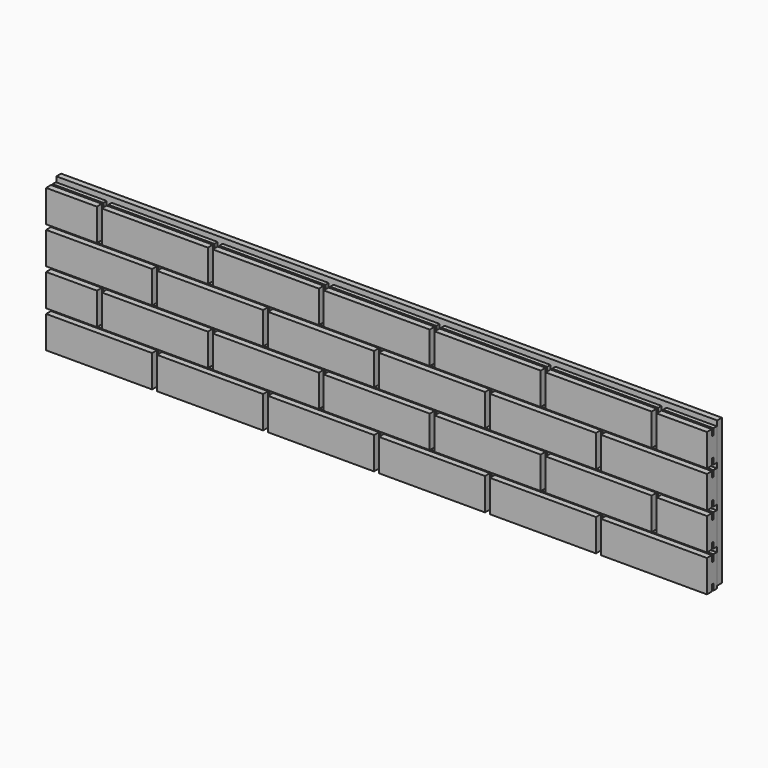
from build123d import *

# Parameters (mm, degrees)
F0_W     = 215
F0_H     = 5
F0_H_2   = 60
F1_DEPTH = 25
F0_W_2   = 102.966442
F0_H_3   = 65
F0_W_3   = 102.033558
F3_W     = 4
F3_H     = 35
F3_H_2   = 12.7475997806
F4_DEPTH = 1340.001
F5_W     = 12
F5_H     = 295
F6_DEPTH = 1340


with BuildPart() as f1:
    # F0 (on Front) → F1 (new body)
    with BuildSketch(Plane.XZ):
        with Locations((-2308.1653881073, 2.5)):
            Rectangle(F0_W, F0_H)
        with Locations((-2308.1653881073, 35)):
            Rectangle(F0_W, F0_H_2)
    extrude(amount=F1_DEPTH)


with BuildPart() as f1b:
    # F0 (on Front) → F1, piece 2 (new body)
    with BuildSketch(Plane.XZ):
        with Locations((-2083.1653881073, 2.5)):
            Rectangle(F0_W, F0_H)
        with Locations((-2083.1653881073, 35)):
            Rectangle(F0_W, F0_H_2)
    extrude(amount=F1_DEPTH)


with BuildPart() as f1c:
    # F0 (on Front) → F1, piece 3 (new body)
    with BuildSketch(Plane.XZ):
        with Locations((-1858.1653881073, 2.5)):
            Rectangle(F0_W, F0_H)
        with Locations((-1858.1653881073, 35)):
            Rectangle(F0_W, F0_H_2)
    extrude(amount=F1_DEPTH)


with BuildPart() as f1d:
    # F0 (on Front) → F1, piece 4 (new body)
    with BuildSketch(Plane.XZ):
        with Locations((-1633.1653881073, 2.5)):
            Rectangle(F0_W, F0_H)
        with Locations((-1633.1653881073, 35)):
            Rectangle(F0_W, F0_H_2)
    extrude(amount=F1_DEPTH)


with BuildPart() as f1e:
    # F0 (on Front) → F1, piece 5 (new body)
    with BuildSketch(Plane.XZ):
        with Locations((-1408.1653881073, 2.5)):
            Rectangle(F0_W, F0_H)
        with Locations((-1408.1653881073, 35)):
            Rectangle(F0_W, F0_H_2)
    extrude(amount=F1_DEPTH)


with BuildPart() as f1f:
    # F0 (on Front) → F1, piece 6 (new body)
    with BuildSketch(Plane.XZ):
        with Locations((-1183.1653881073, 2.5)):
            Rectangle(F0_W, F0_H)
        with Locations((-1183.1653881073, 35)):
            Rectangle(F0_W, F0_H_2)
    extrude(amount=F1_DEPTH)


with BuildPart() as f1g:
    # F0 (on Front) → F1, piece 7 (new body)
    with BuildSketch(Plane.XZ):
        with Locations((-2364.1821671073, 107.45371)):
            Rectangle(F0_W_2, F0_H_3)
    extrude(amount=F1_DEPTH)


with BuildPart() as f1h:
    # F0 (on Front) → F1, piece 8 (new body)
    with BuildSketch(Plane.XZ):
        with Locations((-2195.1989461073, 107.45371)):
            Rectangle(F0_W, F0_H_3)
    extrude(amount=F1_DEPTH)


with BuildPart() as f1i:
    # F0 (on Front) → F1, piece 9 (new body)
    with BuildSketch(Plane.XZ):
        with Locations((-1970.1989461073, 107.45371)):
            Rectangle(F0_W, F0_H_3)
    extrude(amount=F1_DEPTH)


with BuildPart() as f1j:
    # F0 (on Front) → F1, piece 10 (new body)
    with BuildSketch(Plane.XZ):
        with Locations((-1745.1989461073, 107.45371)):
            Rectangle(F0_W, F0_H_3)
    extrude(amount=F1_DEPTH)


with BuildPart() as f1k:
    # F0 (on Front) → F1, piece 11 (new body)
    with BuildSketch(Plane.XZ):
        with Locations((-1520.1989461073, 107.45371)):
            Rectangle(F0_W, F0_H_3)
    extrude(amount=F1_DEPTH)


with BuildPart() as f1l:
    # F0 (on Front) → F1, piece 12 (new body)
    with BuildSketch(Plane.XZ):
        with Locations((-1295.1989461073, 107.45371)):
            Rectangle(F0_W, F0_H_3)
    extrude(amount=F1_DEPTH)


with BuildPart() as f1m:
    # F0 (on Front) → F1, piece 13 (new body)
    with BuildSketch(Plane.XZ):
        with Locations((-1126.6821671073, 107.45371)):
            Rectangle(F0_W_3, F0_H_3)
    extrude(amount=F1_DEPTH)


with BuildPart() as f1n:
    # F0 (on Front) → F1, piece 14 (new body)
    with BuildSketch(Plane.XZ):
        with Locations((-1183.1653881073, 182.5)):
            Rectangle(F0_W, F0_H_3)
    extrude(amount=F1_DEPTH)


with BuildPart() as f1o:
    # F0 (on Front) → F1, piece 15 (new body)
    with BuildSketch(Plane.XZ):
        with Locations((-1408.1653881073, 182.5)):
            Rectangle(F0_W, F0_H_3)
    extrude(amount=F1_DEPTH)


with BuildPart() as f1p:
    # F0 (on Front) → F1, piece 16 (new body)
    with BuildSketch(Plane.XZ):
        with Locations((-1633.1653881073, 182.5)):
            Rectangle(F0_W, F0_H_3)
    extrude(amount=F1_DEPTH)


with BuildPart() as f1q:
    # F0 (on Front) → F1, piece 17 (new body)
    with BuildSketch(Plane.XZ):
        with Locations((-1858.1653881073, 182.5)):
            Rectangle(F0_W, F0_H_3)
    extrude(amount=F1_DEPTH)


with BuildPart() as f1r:
    # F0 (on Front) → F1, piece 18 (new body)
    with BuildSketch(Plane.XZ):
        with Locations((-2308.1653881073, 182.5)):
            Rectangle(F0_W, F0_H_3)
    extrude(amount=F1_DEPTH)


with BuildPart() as f1s:
    # F0 (on Front) → F1, piece 19 (new body)
    with BuildSketch(Plane.XZ):
        with Locations((-2083.1653881073, 182.5)):
            Rectangle(F0_W, F0_H_3)
    extrude(amount=F1_DEPTH)


with BuildPart() as f1t:
    # F0 (on Front) → F1, piece 20 (new body)
    with BuildSketch(Plane.XZ):
        with Locations((-2364.1821671073, 257.45371)):
            Rectangle(F0_W_2, F0_H_3)
    extrude(amount=F1_DEPTH)


with BuildPart() as f1u:
    # F0 (on Front) → F1, piece 21 (new body)
    with BuildSketch(Plane.XZ):
        with Locations((-2195.1989461073, 257.45371)):
            Rectangle(F0_W, F0_H_3)
    extrude(amount=F1_DEPTH)


with BuildPart() as f1v:
    # F0 (on Front) → F1, piece 22 (new body)
    with BuildSketch(Plane.XZ):
        with Locations((-1970.1989461073, 257.45371)):
            Rectangle(F0_W, F0_H_3)
    extrude(amount=F1_DEPTH)


with BuildPart() as f1w:
    # F0 (on Front) → F1, piece 23 (new body)
    with BuildSketch(Plane.XZ):
        with Locations((-1745.1989461073, 257.45371)):
            Rectangle(F0_W, F0_H_3)
    extrude(amount=F1_DEPTH)


with BuildPart() as f1x:
    # F0 (on Front) → F1, piece 24 (new body)
    with BuildSketch(Plane.XZ):
        with Locations((-1520.1989461073, 257.45371)):
            Rectangle(F0_W, F0_H_3)
    extrude(amount=F1_DEPTH)


with BuildPart() as f1y:
    # F0 (on Front) → F1, piece 25 (new body)
    with BuildSketch(Plane.XZ):
        with Locations((-1295.1989461073, 257.45371)):
            Rectangle(F0_W, F0_H_3)
    extrude(amount=F1_DEPTH)


with BuildPart() as f1z:
    # F0 (on Front) → F1, piece 26 (new body)
    with BuildSketch(Plane.XZ):
        with Locations((-1126.6821671073, 257.45371)):
            Rectangle(F0_W_3, F0_H_3)
    extrude(amount=F1_DEPTH)


with BuildPart() as f4_tool:
    # F3 (on offset) → F4 (new body, through all)
    with BuildSketch(Plane.YZ.offset(-1075.6653881073)):
        with Locations((-10.5, 69.761159718)):
            Rectangle(F3_W, F3_H)
        with Locations((-10.5, 144.7860401869)):
            Rectangle(F3_W, F3_H)
        with Locations((-10.5, 220.4239896536)):
            Rectangle(F3_W, F3_H)
        with Locations((-10.5000001863, 6.3737998903)):
            Rectangle(F3_W, F3_H_2)
        with Locations((-10.5, 283.5799101097)):
            Rectangle(F3_W, F3_H_2)
    extrude(amount=-F4_DEPTH)


with BuildPart() as f1_1:
    add(f1.part)

    # F4: cut by f4_tool
    add(f4_tool.part, mode=Mode.SUBTRACT)


with BuildPart() as f1b_1:
    add(f1b.part)

    # F4: cut by f4_tool
    add(f4_tool.part, mode=Mode.SUBTRACT)


with BuildPart() as f1c_1:
    add(f1c.part)

    # F4: cut by f4_tool
    add(f4_tool.part, mode=Mode.SUBTRACT)


with BuildPart() as f1d_1:
    add(f1d.part)

    # F4: cut by f4_tool
    add(f4_tool.part, mode=Mode.SUBTRACT)


with BuildPart() as f1e_1:
    add(f1e.part)

    # F4: cut by f4_tool
    add(f4_tool.part, mode=Mode.SUBTRACT)


with BuildPart() as f1f_1:
    add(f1f.part)

    # F4: cut by f4_tool
    add(f4_tool.part, mode=Mode.SUBTRACT)


with BuildPart() as f1g_1:
    add(f1g.part)

    # F4: cut by f4_tool
    add(f4_tool.part, mode=Mode.SUBTRACT)


with BuildPart() as f1h_1:
    add(f1h.part)

    # F4: cut by f4_tool
    add(f4_tool.part, mode=Mode.SUBTRACT)


with BuildPart() as f1i_1:
    add(f1i.part)

    # F4: cut by f4_tool
    add(f4_tool.part, mode=Mode.SUBTRACT)


with BuildPart() as f1j_1:
    add(f1j.part)

    # F4: cut by f4_tool
    add(f4_tool.part, mode=Mode.SUBTRACT)


with BuildPart() as f1k_1:
    add(f1k.part)

    # F4: cut by f4_tool
    add(f4_tool.part, mode=Mode.SUBTRACT)


with BuildPart() as f1l_1:
    add(f1l.part)

    # F4: cut by f4_tool
    add(f4_tool.part, mode=Mode.SUBTRACT)


with BuildPart() as f1m_1:
    add(f1m.part)

    # F4: cut by f4_tool
    add(f4_tool.part, mode=Mode.SUBTRACT)


with BuildPart() as f1n_1:
    add(f1n.part)

    # F4: cut by f4_tool
    add(f4_tool.part, mode=Mode.SUBTRACT)


with BuildPart() as f1o_1:
    add(f1o.part)

    # F4: cut by f4_tool
    add(f4_tool.part, mode=Mode.SUBTRACT)


with BuildPart() as f1p_1:
    add(f1p.part)

    # F4: cut by f4_tool
    add(f4_tool.part, mode=Mode.SUBTRACT)


with BuildPart() as f1q_1:
    add(f1q.part)

    # F4: cut by f4_tool
    add(f4_tool.part, mode=Mode.SUBTRACT)


with BuildPart() as f1r_1:
    add(f1r.part)

    # F4: cut by f4_tool
    add(f4_tool.part, mode=Mode.SUBTRACT)


with BuildPart() as f1s_1:
    add(f1s.part)

    # F4: cut by f4_tool
    add(f4_tool.part, mode=Mode.SUBTRACT)


with BuildPart() as f1t_1:
    add(f1t.part)

    # F4: cut by f4_tool
    add(f4_tool.part, mode=Mode.SUBTRACT)


with BuildPart() as f1u_1:
    add(f1u.part)

    # F4: cut by f4_tool
    add(f4_tool.part, mode=Mode.SUBTRACT)


with BuildPart() as f1v_1:
    add(f1v.part)

    # F4: cut by f4_tool
    add(f4_tool.part, mode=Mode.SUBTRACT)


with BuildPart() as f1w_1:
    add(f1w.part)

    # F4: cut by f4_tool
    add(f4_tool.part, mode=Mode.SUBTRACT)


with BuildPart() as f1x_1:
    add(f1x.part)

    # F4: cut by f4_tool
    add(f4_tool.part, mode=Mode.SUBTRACT)


with BuildPart() as f1y_1:
    add(f1y.part)

    # F4: cut by f4_tool
    add(f4_tool.part, mode=Mode.SUBTRACT)


with BuildPart() as f1z_1:
    add(f1z.part)

    # F4: cut by f4_tool
    add(f4_tool.part, mode=Mode.SUBTRACT)


with BuildPart() as f6:
    # F5 (on offset) → F6 (new body)
    with BuildSketch(Plane.YZ.offset(-1075.6653881073)):
        with Locations((7, 152.5)):
            Rectangle(F5_W, F5_H)
    extrude(amount=-F6_DEPTH)


solid = Compound([f1_1.part, f1b_1.part, f1c_1.part, f1d_1.part, f1e_1.part, f1f_1.part, f1g_1.part, f1h_1.part, f1i_1.part, f1j_1.part, f1k_1.part, f1l_1.part, f1m_1.part, f1n_1.part, f1o_1.part, f1p_1.part, f1q_1.part, f1r_1.part, f1s_1.part, f1t_1.part, f1u_1.part, f1v_1.part, f1w_1.part, f1x_1.part, f1y_1.part, f1z_1.part, f6.part])
